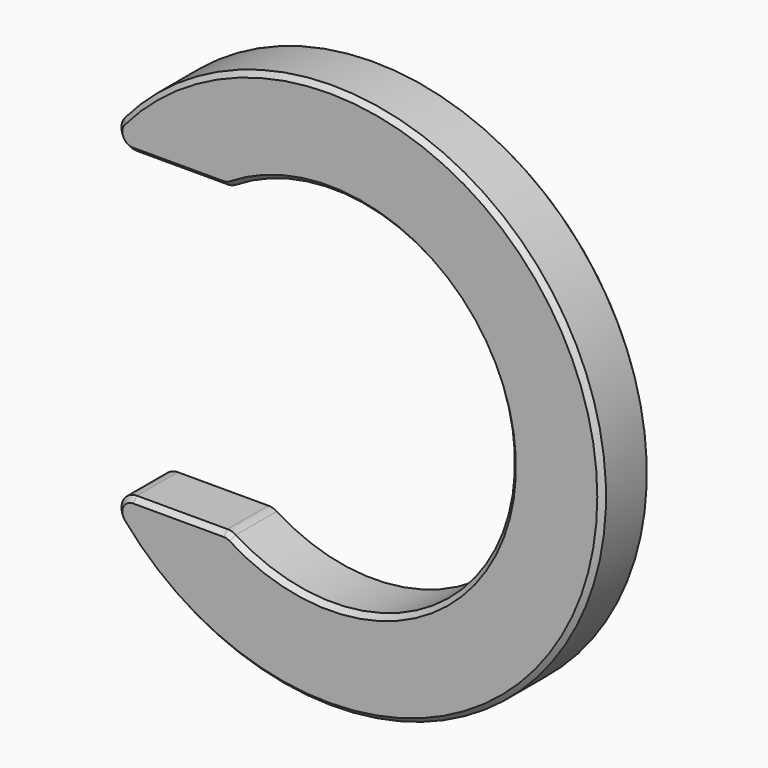
from build123d import *

# Parameters (mm, degrees)
F1_DEPTH = 3.175
F2_SIZE  = 0.254


with BuildPart() as f1:
    # F0 (on Front) → F1 (new body)
    with BuildSketch(Plane.XZ):
        with BuildLine():
            ThreePointArc((-10.246941, -7.9375), (-10.985066, -8.409984), (-10.865041, -9.278122))
            ThreePointArc((-10.865041, -9.278122), (14.2875, 0), (-10.865041, 9.278122))
            ThreePointArc((-10.865041, 9.278122), (-10.985066, 8.409984), (-10.246941, 7.9375))
            Line((-10.246941, 7.9375), (-5.504758, 7.9375))
            ThreePointArc((-5.504758, 7.9375), (-5.279535, 7.969327), (-5.071951, 8.062316))
            ThreePointArc((-5.071951, 8.062316), (9.525, 0), (-5.071951, -8.062316))
            ThreePointArc((-5.071951, -8.062316), (-5.279535, -7.969327), (-5.504758, -7.9375))
            Line((-5.504758, -7.9375), (-10.246941, -7.9375))
        make_face()
    extrude(amount=-F1_DEPTH)

    # F2
    f2_edges = [f1.edges().sort_by_distance(p)[0] for p in [
        (9.525, 0, 0),
        (9.525, 3.175, 0),
    ]]
    chamfer(f2_edges, length=F2_SIZE)


solid = f1.part
